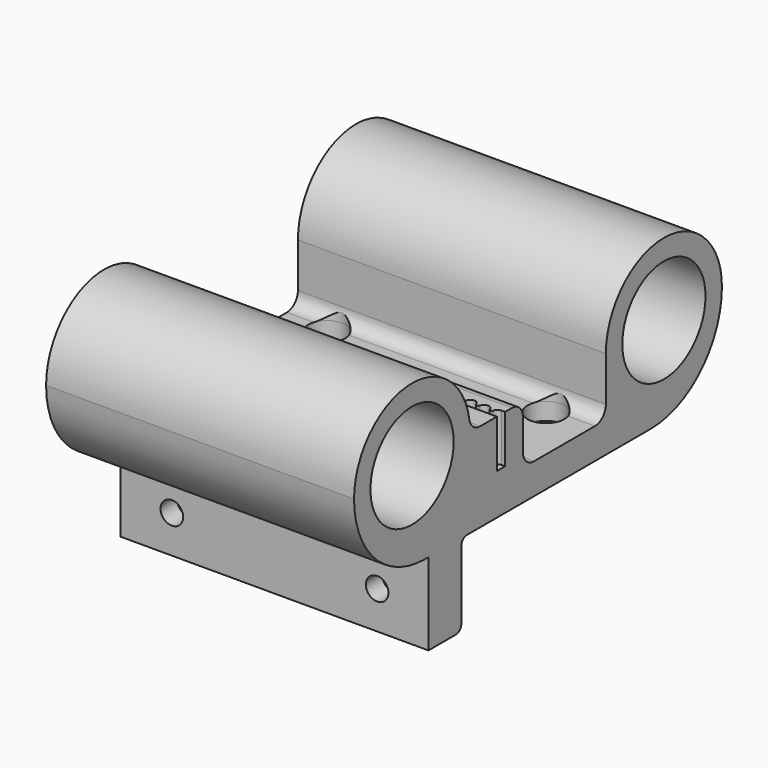
from build123d import *

# Parameters (mm, degrees)
F0_R      = 7.6
F1_DEPTH  = 45
F3_DEPTH  = 3
F4_D      = 3.3
F5_R      = 1.4
F6_DEPTH  = 12.5
F7_R      = 2.7
F8_DEPTH  = 2.5
F9_R      = 2.7
F10_DEPTH = 25
F12_DEPTH = 7


with BuildPart() as f1:
    # F0 (on Right) → F1 (new body)
    with BuildSketch(Plane.YZ):
        with BuildLine():
            ThreePointArc((12.4402572321, 0), (11.1431297586, 0.4776792987), (10.465613227, 1.6825396825))
            ThreePointArc((10.465613227, 1.6825396825), (-0.8439489896, 10.566349895), (-10.6, 0))
            ThreePointArc((-10.6, 0), (-6.7923881554, -9.1923881554), (2.4, -13))
            Line((2.4, -13), (3, -13))
            Line((3, -13), (3, -25))
            Line((3, -25), (8, -25))
            ThreePointArc((8, -25), (8.7071067812, -24.7071067812), (9, -24))
            Line((9, -24), (9, -14))
            ThreePointArc((9, -14), (9.2928932188, -13.2928932188), (10, -13))
            Line((10, -13), (43.6, -13))
            ThreePointArc((43.6, -13), (52.7923881554, -9.1923881554), (56.6, 0))
            ThreePointArc((56.6, 0), (46, 10.6), (35.4, 0))
            Line((35.4, 0), (35.4, -6.5))
            ThreePointArc((35.4, -6.5), (34.8142135624, -7.9142135624), (33.4, -8.5))
            Line((33.4, -8.5), (22.25, -8.5))
            ThreePointArc((22.25, -8.5), (20.8357864376, -7.9142135624), (20.25, -6.5))
            Line((20.25, -6.5), (20.25, -2))
            ThreePointArc((20.25, -2), (19.6642135624, -0.5857864376), (18.25, 0))
            Line((18.25, 0), (16.25, 0))
            Line((16.25, 0), (16.25, -7))
            Line((16.25, -7), (15.5, -7))
            Line((15.5, -7), (15.5, 0))
            Line((15.5, 0), (12.4402572321, 0))
        make_face()
        Circle(F0_R, mode=Mode.SUBTRACT)
        with Locations((46, 0)):
            Circle(F0_R, mode=Mode.SUBTRACT)
    extrude(amount=F1_DEPTH)

    # F2 (on face) → F3 (cut)
    with BuildSketch(Plane(origin=(0, 9, 0), x_dir=(-1, 0, 0), z_dir=(0, 1, 0))):
        Polygon((-39.2320508076, -22.5), (-35.7679491924, -22.5), (-34.0358983849, -19.5), (-35.7679491924, -16.5), (-39.2320508076, -16.5), (-40.9641016151, -19.5), align=None)
        Polygon((-9.2320508076, -22.5), (-5.7679491924, -22.5), (-4.0358983849, -19.5), (-5.7679491924, -16.5), (-9.2320508076, -16.5), (-10.9641016151, -19.5), align=None)
    extrude(amount=-F3_DEPTH, mode=Mode.SUBTRACT)

    # F4 (through all)
    with Locations(Plane(origin=(0, 9, 0), x_dir=(-1, 0, 0), z_dir=(0, 1, 0))):
        with Locations((-37.5, -19.5), (-7.5, -19.5)):
            Hole(F4_D / 2)

    # F5 (on face) → F6 (cut, symmetric)
    with BuildSketch(Plane.XY.offset(-8.5)):
        with Locations((6.5, 32.575)):
            Circle(F5_R)
        with Locations((6.5, 23.075)):
            Circle(F5_R)
        with Locations((38.5, 23.075)):
            Circle(F5_R)
        with Locations((38.5, 32.575)):
            Circle(F5_R)
    extrude(amount=F6_DEPTH, both=True, mode=Mode.SUBTRACT)

    # F7 (on face) → F8 (cut)
    with BuildSketch(Plane.XY.offset(-8.5)):
        with Locations((6.5, 32.575)):
            Circle(F7_R)
        with Locations((38.5, 32.575)):
            Circle(F7_R)
        with Locations((38.5, 23.075)):
            Circle(F7_R)
        with Locations((6.5, 23.075)):
            Circle(F7_R)
    extrude(amount=-F8_DEPTH, mode=Mode.SUBTRACT)

    # F9 (on face) → F10 (cut)
    with BuildSketch(Plane.XY.offset(-8.5)):
        with Locations((6.5, 32.575)):
            Circle(F9_R)
        with Locations((38.5, 32.575)):
            Circle(F9_R)
        with Locations((38.5, 23.075)):
            Circle(F9_R)
        with Locations((6.5, 23.075)):
            Circle(F9_R)
    extrude(amount=F10_DEPTH, mode=Mode.SUBTRACT)

    # F11 (on face) → F12 (cut)
    with BuildSketch(Plane.XY):
        with BuildLine():
            ThreePointArc((23.3874119675, 16.25), (23.2905873838, 16.2854356076), (23.2395099729, 16.375))
            ThreePointArc((23.2395099729, 16.375), (22.5, 17), (21.7604900271, 16.375))
            ThreePointArc((21.7604900271, 16.375), (21.7094126162, 16.2854356076), (21.6125880325, 16.25))
            Line((21.6125880325, 16.25), (21.5, 16.25))
            Line((21.5, 16.25), (21.5, 16.05))
            Line((21.5, 16.05), (23.5, 16.05))
            Line((23.5, 16.05), (23.5, 16.25))
            Line((23.5, 16.25), (23.3874119675, 16.25))
        make_face()
        with BuildLine():
            Line((23.6125880325, 16.25), (23.5, 16.25))
            Line((23.5, 16.25), (23.5, 16.05))
            Line((23.5, 16.05), (25.5, 16.05))
            Line((25.5, 16.05), (25.5, 16.25))
            Line((25.5, 16.25), (25.3874119675, 16.25))
            ThreePointArc((25.3874119675, 16.25), (25.2905873838, 16.2854356076), (25.2395099729, 16.375))
            ThreePointArc((25.2395099729, 16.375), (24.5, 17), (23.7604900271, 16.375))
            ThreePointArc((23.7604900271, 16.375), (23.7094126162, 16.2854356076), (23.6125880325, 16.25))
        make_face()
        with BuildLine():
            Line((21.5, 16.05), (21.5, 16.25))
            Line((21.5, 16.25), (21.3874119675, 16.25))
            ThreePointArc((21.3874119675, 16.25), (21.2905873838, 16.2854356076), (21.2395099729, 16.375))
            ThreePointArc((21.2395099729, 16.375), (20.5, 17), (19.7604900271, 16.375))
            ThreePointArc((19.7604900271, 16.375), (19.7094126162, 16.2854356076), (19.6125880325, 16.25))
            Line((19.6125880325, 16.25), (19.5, 16.25))
            Line((19.5, 16.25), (19.5, 16.05))
            Line((19.5, 16.05), (21.5, 16.05))
        make_face()
        with BuildLine():
            Line((25.5, 16.25), (25.5, 16.05))
            Line((25.5, 16.05), (27.5, 16.05))
            Line((27.5, 16.05), (27.5, 16.25))
            Line((27.5, 16.25), (27.3874119675, 16.25))
            ThreePointArc((27.3874119675, 16.25), (27.2905873838, 16.2854356076), (27.2395099729, 16.375))
            ThreePointArc((27.2395099729, 16.375), (26.5, 17), (25.7604900271, 16.375))
            ThreePointArc((25.7604900271, 16.375), (25.7094126162, 16.2854356076), (25.6125880325, 16.25))
            Line((25.6125880325, 16.25), (25.5, 16.25))
        make_face()
        with BuildLine():
            Line((17.5, 16.05), (19.5, 16.05))
            Line((19.5, 16.05), (19.5, 16.25))
            Line((19.5, 16.25), (19.3874119675, 16.25))
            ThreePointArc((19.3874119675, 16.25), (19.2905873838, 16.2854356076), (19.2395099729, 16.375))
            ThreePointArc((19.2395099729, 16.375), (18.5, 17), (17.7604900271, 16.375))
            ThreePointArc((17.7604900271, 16.375), (17.7094126162, 16.2854356076), (17.6125880325, 16.25))
            Line((17.6125880325, 16.25), (17.5, 16.25))
            Line((17.5, 16.25), (17.5, 16.05))
        make_face()
        with BuildLine():
            Line((27.5, 16.25), (27.5, 16.05))
            Line((27.5, 16.05), (29.5, 16.05))
            Line((29.5, 16.05), (29.5, 16.25))
            Line((29.5, 16.25), (29.3874119675, 16.25))
            ThreePointArc((29.3874119675, 16.25), (29.2905873838, 16.2854356076), (29.2395099729, 16.375))
            ThreePointArc((29.2395099729, 16.375), (28.5, 17), (27.7604900271, 16.375))
            ThreePointArc((27.7604900271, 16.375), (27.7094126162, 16.2854356076), (27.6125880325, 16.25))
            Line((27.6125880325, 16.25), (27.5, 16.25))
        make_face()
        with BuildLine():
            Line((15.5, 16.05), (17.5, 16.05))
            Line((17.5, 16.05), (17.5, 16.25))
            Line((17.5, 16.25), (17.3874119675, 16.25))
            ThreePointArc((17.3874119675, 16.25), (17.2905873838, 16.2854356076), (17.2395099729, 16.375))
            ThreePointArc((17.2395099729, 16.375), (16.5, 17), (15.7604900271, 16.375))
            ThreePointArc((15.7604900271, 16.375), (15.7094126162, 16.2854356076), (15.6125880325, 16.25))
            Line((15.6125880325, 16.25), (15.5, 16.25))
            Line((15.5, 16.25), (15.5, 16.05))
        make_face()
        with BuildLine():
            Line((29.5, 16.25), (29.5, 16.05))
            Line((29.5, 16.05), (31.5, 16.05))
            Line((31.5, 16.05), (31.5, 16.25))
            Line((31.5, 16.25), (31.3874119675, 16.25))
            ThreePointArc((31.3874119675, 16.25), (31.2905873838, 16.2854356076), (31.2395099729, 16.375))
            ThreePointArc((31.2395099729, 16.375), (30.5, 17), (29.7604900271, 16.375))
            ThreePointArc((29.7604900271, 16.375), (29.7094126162, 16.2854356076), (29.6125880325, 16.25))
            Line((29.6125880325, 16.25), (29.5, 16.25))
        make_face()
        with BuildLine():
            Line((13.5, 16.05), (15.5, 16.05))
            Line((15.5, 16.05), (15.5, 16.25))
            Line((15.5, 16.25), (15.3874119675, 16.25))
            ThreePointArc((15.3874119675, 16.25), (15.2905873838, 16.2854356076), (15.2395099729, 16.375))
            ThreePointArc((15.2395099729, 16.375), (14.5, 17), (13.7604900271, 16.375))
            ThreePointArc((13.7604900271, 16.375), (13.7094126162, 16.2854356076), (13.6125880325, 16.25))
            Line((13.6125880325, 16.25), (13.5, 16.25))
            Line((13.5, 16.25), (13.5, 16.05))
        make_face()
        with BuildLine():
            Line((31.5, 16.25), (31.5, 16.05))
            Line((31.5, 16.05), (33.5, 16.05))
            Line((33.5, 16.05), (33.5, 16.25))
            Line((33.5, 16.25), (33.3874119675, 16.25))
            ThreePointArc((33.3874119675, 16.25), (33.2905873838, 16.2854356076), (33.2395099729, 16.375))
            ThreePointArc((33.2395099729, 16.375), (32.5, 17), (31.7604900271, 16.375))
            ThreePointArc((31.7604900271, 16.375), (31.7094126162, 16.2854356076), (31.6125880325, 16.25))
            Line((31.6125880325, 16.25), (31.5, 16.25))
        make_face()
        with BuildLine():
            Line((11.5, 16.05), (13.5, 16.05))
            Line((13.5, 16.05), (13.5, 16.25))
            Line((13.5, 16.25), (13.3874119675, 16.25))
            ThreePointArc((13.3874119675, 16.25), (13.2905873838, 16.2854356076), (13.2395099729, 16.375))
            ThreePointArc((13.2395099729, 16.375), (12.5, 17), (11.7604900271, 16.375))
            ThreePointArc((11.7604900271, 16.375), (11.7094126162, 16.2854356076), (11.6125880325, 16.25))
            Line((11.6125880325, 16.25), (11.5, 16.25))
            Line((11.5, 16.25), (11.5, 16.05))
        make_face()
        with BuildLine():
            Line((33.5, 16.25), (33.5, 16.05))
            Line((33.5, 16.05), (35.5, 16.05))
            Line((35.5, 16.05), (35.5, 16.25))
            Line((35.5, 16.25), (35.3874119675, 16.25))
            ThreePointArc((35.3874119675, 16.25), (35.2905873838, 16.2854356076), (35.2395099729, 16.375))
            ThreePointArc((35.2395099729, 16.375), (34.5, 17), (33.7604900271, 16.375))
            ThreePointArc((33.7604900271, 16.375), (33.7094126162, 16.2854356076), (33.6125880325, 16.25))
            Line((33.6125880325, 16.25), (33.5, 16.25))
        make_face()
        with BuildLine():
            Line((9.5, 16.05), (11.5, 16.05))
            Line((11.5, 16.05), (11.5, 16.25))
            Line((11.5, 16.25), (11.3874119675, 16.25))
            ThreePointArc((11.3874119675, 16.25), (11.2905873838, 16.2854356076), (11.2395099729, 16.375))
            ThreePointArc((11.2395099729, 16.375), (10.5, 17), (9.7604900271, 16.375))
            ThreePointArc((9.7604900271, 16.375), (9.7094126162, 16.2854356076), (9.6125880325, 16.25))
            Line((9.6125880325, 16.25), (9.5, 16.25))
            Line((9.5, 16.25), (9.5, 16.05))
        make_face()
        with BuildLine():
            Line((35.5, 16.25), (35.5, 16.05))
            Line((35.5, 16.05), (37.5, 16.05))
            Line((37.5, 16.05), (37.5, 16.25))
            Line((37.5, 16.25), (37.3874119675, 16.25))
            ThreePointArc((37.3874119675, 16.25), (37.2905873838, 16.2854356076), (37.2395099729, 16.375))
            ThreePointArc((37.2395099729, 16.375), (36.5, 17), (35.7604900271, 16.375))
            ThreePointArc((35.7604900271, 16.375), (35.7094126162, 16.2854356076), (35.6125880325, 16.25))
            Line((35.6125880325, 16.25), (35.5, 16.25))
        make_face()
        with BuildLine():
            Line((7.5, 16.05), (9.5, 16.05))
            Line((9.5, 16.05), (9.5, 16.25))
            Line((9.5, 16.25), (9.3874119675, 16.25))
            ThreePointArc((9.3874119675, 16.25), (9.2905873838, 16.2854356076), (9.2395099729, 16.375))
            ThreePointArc((9.2395099729, 16.375), (8.5, 17), (7.7604900271, 16.375))
            ThreePointArc((7.7604900271, 16.375), (7.7094126162, 16.2854356076), (7.6125880325, 16.25))
            Line((7.6125880325, 16.25), (7.5, 16.25))
            Line((7.5, 16.25), (7.5, 16.05))
        make_face()
        with BuildLine():
            Line((37.5, 16.25), (37.5, 16.05))
            Line((37.5, 16.05), (39.5, 16.05))
            Line((39.5, 16.05), (39.5, 16.25))
            Line((39.5, 16.25), (39.3874119675, 16.25))
            ThreePointArc((39.3874119675, 16.25), (39.2905873838, 16.2854356076), (39.2395099729, 16.375))
            ThreePointArc((39.2395099729, 16.375), (38.5, 17), (37.7604900271, 16.375))
            ThreePointArc((37.7604900271, 16.375), (37.7094126162, 16.2854356076), (37.6125880325, 16.25))
            Line((37.6125880325, 16.25), (37.5, 16.25))
        make_face()
        with BuildLine():
            Line((5.5, 16.05), (7.5, 16.05))
            Line((7.5, 16.05), (7.5, 16.25))
            Line((7.5, 16.25), (7.3874119675, 16.25))
            ThreePointArc((7.3874119675, 16.25), (7.2905873838, 16.2854356076), (7.2395099729, 16.375))
            ThreePointArc((7.2395099729, 16.375), (6.5, 17), (5.7604900271, 16.375))
            ThreePointArc((5.7604900271, 16.375), (5.7094126162, 16.2854356076), (5.6125880325, 16.25))
            Line((5.6125880325, 16.25), (5.5, 16.25))
            Line((5.5, 16.25), (5.5, 16.05))
        make_face()
        with BuildLine():
            Line((39.5, 16.25), (39.5, 16.05))
            Line((39.5, 16.05), (41.5, 16.05))
            Line((41.5, 16.05), (41.5, 16.25))
            Line((41.5, 16.25), (41.3874119675, 16.25))
            ThreePointArc((41.3874119675, 16.25), (41.2905873838, 16.2854356076), (41.2395099729, 16.375))
            ThreePointArc((41.2395099729, 16.375), (40.5, 17), (39.7604900271, 16.375))
            ThreePointArc((39.7604900271, 16.375), (39.7094126162, 16.2854356076), (39.6125880325, 16.25))
            Line((39.6125880325, 16.25), (39.5, 16.25))
        make_face()
        with BuildLine():
            Line((3.5, 16.05), (5.5, 16.05))
            Line((5.5, 16.05), (5.5, 16.25))
            Line((5.5, 16.25), (5.3874119675, 16.25))
            ThreePointArc((5.3874119675, 16.25), (5.2905873838, 16.2854356076), (5.2395099729, 16.375))
            ThreePointArc((5.2395099729, 16.375), (4.5, 17), (3.7604900271, 16.375))
            ThreePointArc((3.7604900271, 16.375), (3.7094126162, 16.2854356076), (3.6125880325, 16.25))
            Line((3.6125880325, 16.25), (3.5, 16.25))
            Line((3.5, 16.25), (3.5, 16.05))
        make_face()
        with BuildLine():
            Line((41.5, 16.25), (41.5, 16.05))
            Line((41.5, 16.05), (43.5, 16.05))
            Line((43.5, 16.05), (43.5, 16.25))
            Line((43.5, 16.25), (43.3874119675, 16.25))
            ThreePointArc((43.3874119675, 16.25), (43.2905873838, 16.2854356076), (43.2395099729, 16.375))
            ThreePointArc((43.2395099729, 16.375), (42.5, 17), (41.7604900271, 16.375))
            ThreePointArc((41.7604900271, 16.375), (41.7094126162, 16.2854356076), (41.6125880325, 16.25))
            Line((41.6125880325, 16.25), (41.5, 16.25))
        make_face()
        with BuildLine():
            Line((1.5, 16.05), (3.5, 16.05))
            Line((3.5, 16.05), (3.5, 16.25))
            Line((3.5, 16.25), (3.3874119675, 16.25))
            ThreePointArc((3.3874119675, 16.25), (3.2905873838, 16.2854356076), (3.2395099729, 16.375))
            ThreePointArc((3.2395099729, 16.375), (2.5, 17), (1.7604900271, 16.375))
            ThreePointArc((1.7604900271, 16.375), (1.7094126162, 16.2854356076), (1.6125880325, 16.25))
            Line((1.6125880325, 16.25), (1.5, 16.25))
            Line((1.5, 16.25), (1.5, 16.05))
        make_face()
        with BuildLine():
            Line((43.5, 16.25), (43.5, 16.05))
            Line((43.5, 16.05), (45.5, 16.05))
            Line((45.5, 16.05), (45.5, 17))
            Line((45.5, 17), (44.5, 17))
            ThreePointArc((44.5, 17), (44.0158770817, 16.8228219619), (43.7604900271, 16.375))
            ThreePointArc((43.7604900271, 16.375), (43.7094126162, 16.2854356076), (43.6125880325, 16.25))
            Line((43.6125880325, 16.25), (43.5, 16.25))
        make_face()
        with BuildLine():
            Line((-0.5, 16.05), (1.5, 16.05))
            Line((1.5, 16.05), (1.5, 16.25))
            Line((1.5, 16.25), (1.3874119675, 16.25))
            ThreePointArc((1.3874119675, 16.25), (1.2905873838, 16.2854356076), (1.2395099729, 16.375))
            ThreePointArc((1.2395099729, 16.375), (0.9841229183, 16.8228219619), (0.5, 17))
            Line((0.5, 17), (-0.5, 17))
            Line((-0.5, 17), (-0.5, 16.05))
        make_face()
    extrude(amount=-F12_DEPTH, mode=Mode.SUBTRACT)


solid = f1.part
